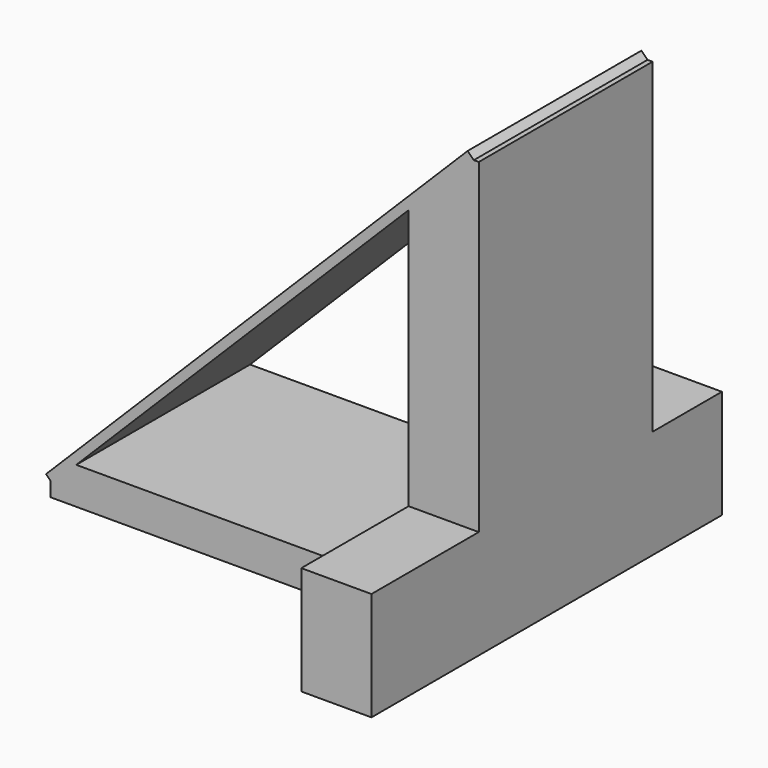
from build123d import *

# Parameters (mm, degrees)
F0_W     = 16.1465890706
F0_H     = 50
F1_DEPTH = 100
F0_W_2   = 82.4685227126
F2_DEPTH = 8.5
F3_SIZE  = 15
F4_W     = 50
F4_H     = 137.2287848778
F5_DEPTH = 28
F4_H_2   = 21.2132034356
F4_H_3   = 116.0155814422
F6_DEPTH = 2
F0_H_2   = 30.8768022805
F0_H_3   = 19.9685309082
F7_DEPTH = 25


with BuildPart() as f1:
    # F0 (on Top) → F1 (new body)
    with BuildSketch(Plane.XY):
        with Locations((66.7468514293, 8.8534165174)):
            Rectangle(F0_W, F0_H)
    extrude(amount=F1_DEPTH)

    # F0 (on Top) → F2 (join)
    with BuildSketch(Plane.XY):
        with Locations((17.4392955378, 8.8534165174)):
            Rectangle(F0_W_2, F0_H)
    extrude(amount=F2_DEPTH)

    # F3
    f3_edges = [f1.edges().sort_by_distance(p)[0] for p in [
        (58.673557, 8.853417, 100),
    ]]
    chamfer(f3_edges, length=F3_SIZE)

    # F4 (on face) → F5 (cut)
    with BuildSketch(Plane(origin=(-13.163221553, 0, 13.163221553), x_dir=(0, -1, 0), z_dir=(-0.7071067812, 0, 0.7071067812))):
        with Locations((-8.8534165174, 54.1913573537)):
            Rectangle(F4_W, F4_H)
    extrude(amount=F5_DEPTH, mode=Mode.SUBTRACT)

    # F4 (on face) → F6 (join)
    with BuildSketch(Plane(origin=(-13.163221553, 0, 13.163221553), x_dir=(0, -1, 0), z_dir=(-0.7071067812, 0, 0.7071067812))):
        with Locations((-8.8534165174, 112.1991480748)):
            Rectangle(F4_W, F4_H_2)
        with Locations((-8.8534165174, 43.5847556359)):
            Rectangle(F4_W, F4_H_3)
    extrude(amount=F6_DEPTH)

    # F0 (on Top) → F7 (join)
    with BuildSketch(Plane.XY):
        with Locations((66.7468514293, -31.5849846229)):
            Rectangle(F0_W, F0_H_2)
        with Locations((66.7468514293, 43.8376819715)):
            Rectangle(F0_W, F0_H_3)
    extrude(amount=F7_DEPTH)


solid = f1.part
